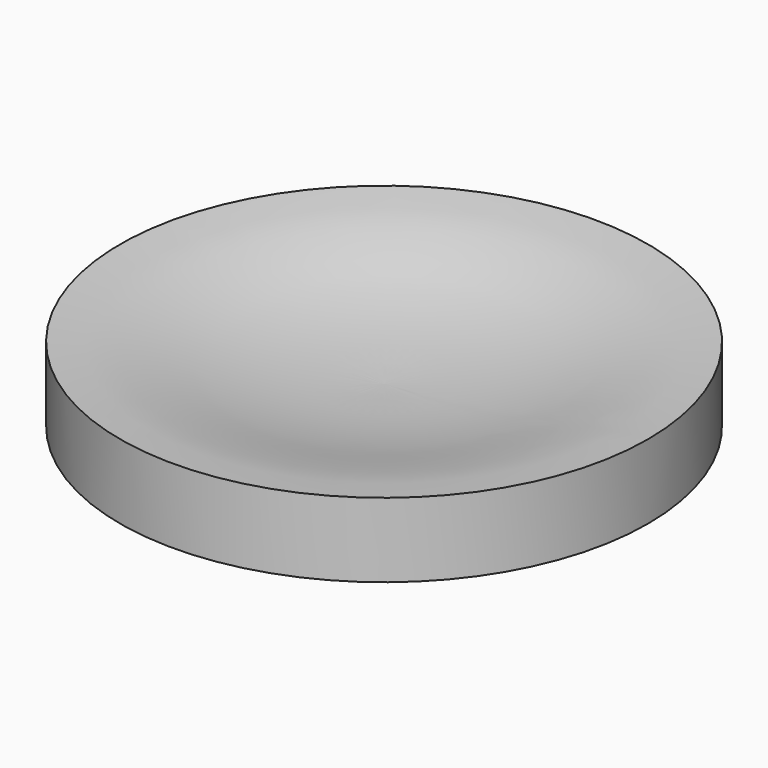
from build123d import *


with BuildPart() as f1:
    # F0 (on Front) → F1 (revolve)
    with BuildSketch(Plane.XZ):
        with BuildLine():
            Line((0, 1), (0, 0))
            Line((0, 0), (7.1, 0))
            Line((7.1, 0), (7.1, 2))
            add(Edge.make_bspline(
                [(7.1, 2), (4.470348, 1.810139), (4, 1.060779), (0, 1)],
                knots=[0, 0, 0, 0, 7.170077, 7.170077, 7.170077, 7.170077], degree=3))
        make_face()
    revolve(axis=Axis((0, 0, 0.5), (0, 0, -1)))


solid = f1.part
